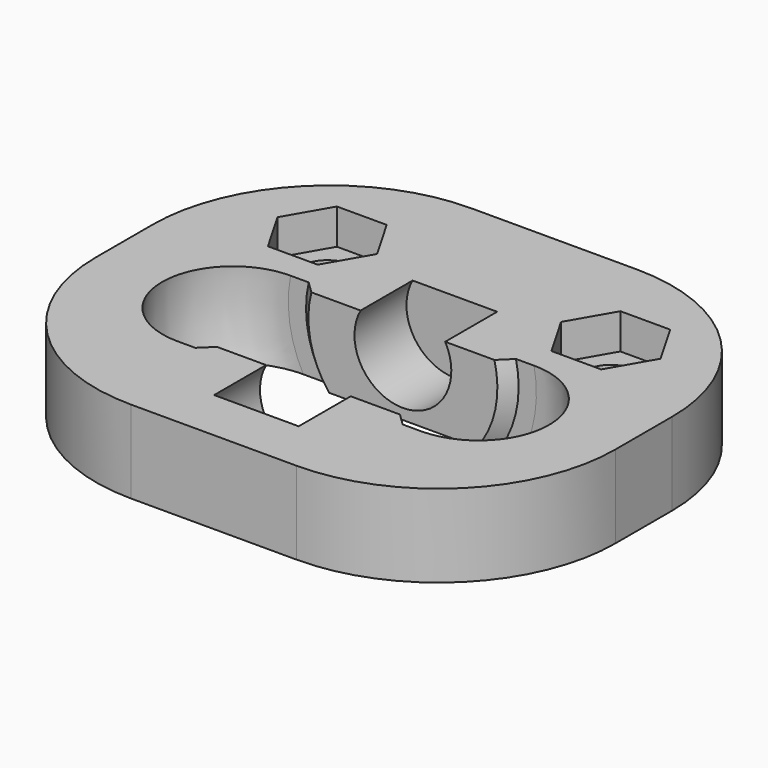
from build123d import *

# Parameters (mm, degrees)
PAD_DEPTH       = 7
SKETCH002_R     = 4.1
POCKET001_DEPTH = 10.5
SKETCH003_R     = 2.25
HOLE_DEPTH      = 7.001
POCKET002_DEPTH = 3.001


with BuildPart() as part:
    # Sketch001 → Pad (new body)
    with BuildSketch(Plane.XY):
        with BuildLine():
            ThreePointArc((-7, 21), (-17.606602, 16.606602), (-22, 6))
            Line((-22, 0), (-22, 6))
            ThreePointArc((-22, 0), (-17.606602, -10.606602), (-7, -15))
            Line((7, -15), (-7, -15))
            ThreePointArc((7, -15), (17.606602, -10.606602), (22, 0))
            Line((22, 6), (22, 0))
            ThreePointArc((22, 6), (17.606602, 16.606602), (7, 21))
            Line((-7, 21), (7, 21))
        make_face()
    extrude(amount=PAD_DEPTH)

    # Sketch002 → Pocket001 (cut, symmetric)
    with BuildSketch(Plane.XZ):
        with Locations((0, 5)):
            Circle(SKETCH002_R)
    extrude(amount=POCKET001_DEPTH, both=True, mode=Mode.SUBTRACT)

    # Sketch003 → Hole (cut, through all)
    with BuildSketch(Plane(origin=(12, 12, 0), x_dir=(1, 0, 0), z_dir=(0, 0, 1))):
        Circle(SKETCH003_R)
        with Locations((-24, 0)):
            Circle(SKETCH003_R)
    extrude(amount=HOLE_DEPTH, mode=Mode.SUBTRACT)

    # Sketch004 (on Sketch) → Pocket002 (cut, through all)
    with BuildSketch(Plane(origin=(12, 12, 4), x_dir=(1, 0, 0), z_dir=(0, 0, 1))):
        Polygon((4.214657, 0), (2.107328, 3.65), (-2.107328, 3.65), (-4.214657, 0), (-2.107328, -3.65), (2.107328, -3.65), align=None)
        Polygon((-19.785343, 0), (-21.892672, 3.65), (-26.107328, 3.65), (-28.214657, 0), (-26.107328, -3.65), (-21.892672, -3.65), align=None)
    extrude(amount=POCKET002_DEPTH, mode=Mode.SUBTRACT)

    # Sketch → Groove (revolve, cut)
    with BuildSketch(Plane.XY.offset(5)):
        with BuildLine():
            ThreePointArc((10.5, -6), (16.5, 0), (10.5, 6))
            Line((9, 6), (10.5, 6))
            Line((8, 5), (9, 6))
            Line((0, 5), (8, 5))
            Line((0, 5), (0, -5))
            Line((0, -5), (8, -5))
            Line((8, -5), (9, -6))
            Line((9, -6), (10.5, -6))
        make_face()
    revolve(axis=Axis((0, 0, 5), (0, 1, 0)), mode=Mode.SUBTRACT)


solid = part.part
